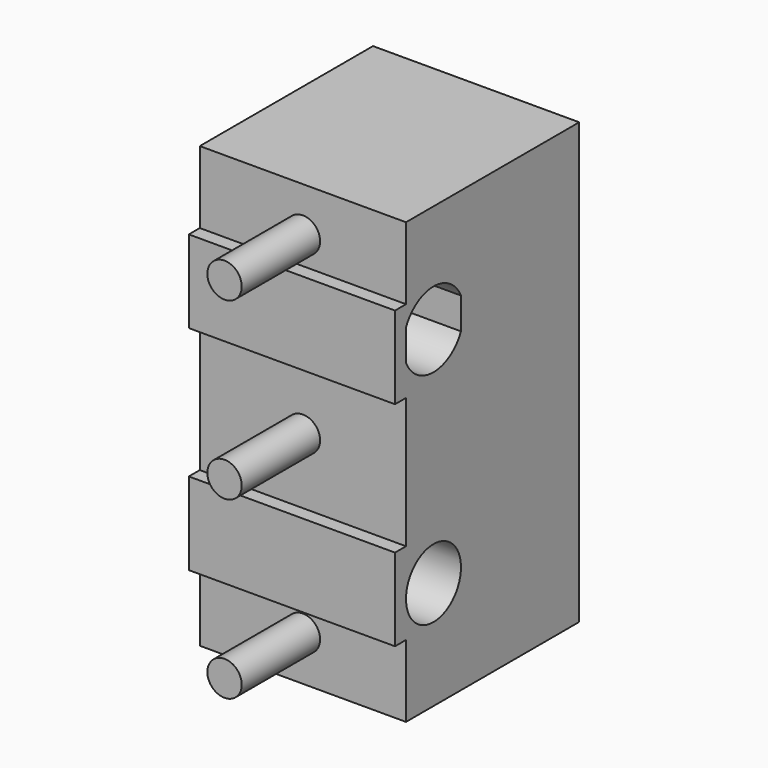
from build123d import *

# Parameters (mm, degrees)
SKETCH090_R             = 1
PAD055_DEPTH            = 6
CYLINDER080_R           = 0.5
CYLINDER080_DEPTH       = 3
LINEARPATTERN001_COUNT  = 3
LINEARPATTERN001_PITCH  = 5.1
CYLINDER081_R           = 0.5
CYLINDER081_DEPTH       = 2.6
BODY073_PITCH_ANGLE     = 88.936822
BODY073_PLACEMENT_ANGLE = -90
BODY074_ROLL_ANGLE      = 1.063178
BODY074_PLACEMENT_ANGLE = -90
BODY075_PLACEMENT_ANGLE = 90
BODY076_PLACEMENT_ANGLE = 90


with BuildPart() as part:
    # Sketch090 → Pad055 (new body)
    with BuildSketch(Plane.XY):
        Polygon((6.4, 3.15), (6.4, -3.15), (4.3, -3.15), (4.3, -3.55), (1.9, -3.55), (1.9, -3.15), (-1.9, -3.15), (-1.9, -3.55), (-4.3, -3.55), (-4.3, -3.15), (-6.4, -3.15), (-6.4, 3.15), (-3.4, 3.15), align=None)
        with Locations((3.25, -2.15)):
            Circle(SKETCH090_R, mode=Mode.SUBTRACT)
        with BuildLine():
            ThreePointArc((-3.708258, -1.15), (-4.35, -2.15), (-3.708258, -3.15))
            Line((-2.791742, -3.15), (-3.708258, -3.15))
            ThreePointArc((-2.791742, -3.15), (-2.15, -2.15), (-2.791742, -1.15))
            Line((-3.708258, -1.15), (-2.791742, -1.15))
        make_face(mode=Mode.SUBTRACT)
    extrude(amount=PAD055_DEPTH)

    # Cylinder080 → Cylinder080 (join)
    with BuildSketch(Plane(origin=(-5.1, -3, 3), x_dir=(1, 0, 0), z_dir=(0, -1, 0))):
        Circle(CYLINDER080_R)
    cylinder080 = extrude(amount=CYLINDER080_DEPTH)

    # LinearPattern001: Cylinder080 ×3
    with Locations(*[(i * LINEARPATTERN001_PITCH, 0, 0) for i in range(1, LINEARPATTERN001_COUNT)]):
        add(cylinder080)

    # Cylinder081 → Cylinder081 (join)
    with BuildSketch(Plane(origin=(-1.9, 3.15, 1.7), x_dir=(1, 0, 0), z_dir=(0, 0, 1))):
        Circle(CYLINDER081_R)
    extrude(amount=CYLINDER081_DEPTH)


with BuildPart() as part_1:
    # Body073 pitch: moved
    add(part.part.rotate(Axis((0, 0, 0), (0, 1, 0)), BODY073_PITCH_ANGLE))


with BuildPart() as part_2:
    # Body073 placement: moved
    add(part_1.part.moved(Location((-7.15, 2.882282, 8.601102))).rotate(Axis((-7.15, 2.882282, 8.601102), (0, 0, 1)), BODY073_PLACEMENT_ANGLE))


with BuildPart() as part_3:
    # Body074 roll: moved
    add(part_2.part.rotate(Axis((0, 0, 0), (1, 0, 0)), BODY074_ROLL_ANGLE))


with BuildPart() as part_4:
    # Body074 placement: moved
    add(part_3.part.moved(Location((0.277807, 0, -0.053101))).rotate(Axis((0.277807, 0, -0.053101), (0, 0, 1)), BODY074_PLACEMENT_ANGLE))


with BuildPart() as part_5:
    # Body075 placement: moved
    add(part_4.part.moved(Location((0, 0.105928, 0))).rotate(Axis((0, 0.105928, 0), (0, 0, -1)), BODY075_PLACEMENT_ANGLE))


with BuildPart() as part_6:
    # Body076 placement: moved
    add(part_5.part.moved(Location((-0.105928, 0, 0))).rotate(Axis((-0.105928, 0, 0), (0, 0, -1)), BODY076_PLACEMENT_ANGLE))


solid = part_6.part
